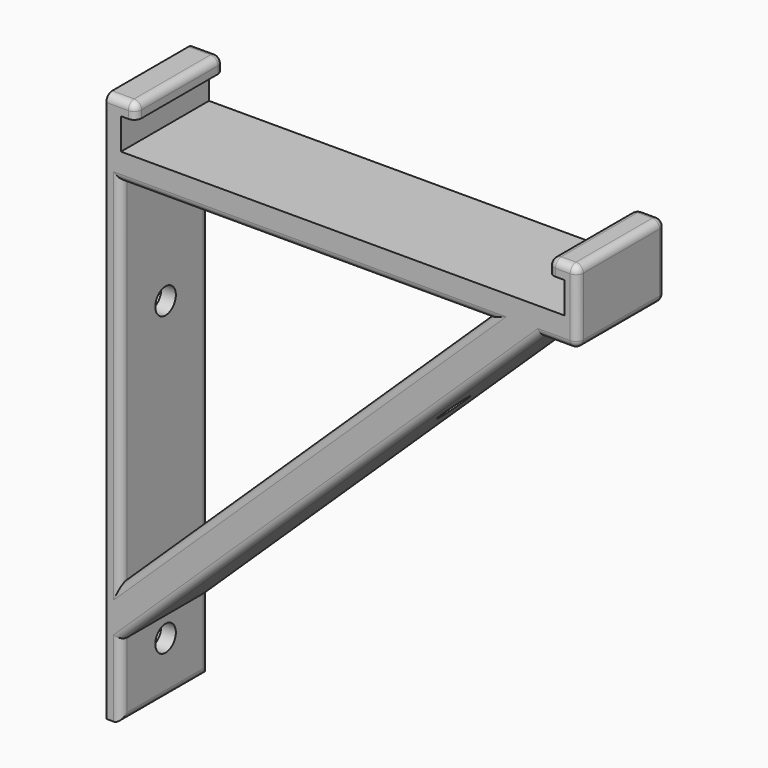
from build123d import *

# Parameters (mm, degrees)
F1_DEPTH      = 30
F2_R          = 3.5
F3_DEPTH      = 73.1
F4_DEPTH      = 25
F4_DEPTH_BACK = 25
F5_R          = 2


with BuildPart() as f1:
    # F0 (on Front) → F1 (new body)
    with BuildSketch(Plane.XZ):
        Polygon((-57.971305, 24.073915), (-57.971305, 32.573915), (-53.971305, 32.573915), (-53.971305, 36.573915), (-61.971305, 36.573915), (-61.971305, -113.426085), (-57.971305, -113.426085), (-57.971305, -93.426085), (56.528695, 16.573915), (66.528695, 16.573915), (66.528695, 36.573915), (58.528695, 36.573915), (58.528695, 32.573915), (63.028695, 32.573915), (63.028695, 24.073915), align=None)
        Polygon((-57.971305, -79.559067), (-57.971305, 16.573915), (42.094389, 16.573915), align=None, mode=Mode.SUBTRACT)
    extrude(amount=F1_DEPTH)

    # F2 (on Right) → F3 (cut)
    with BuildSketch(Plane.YZ):
        with Locations((-14.8, -98.926085)):
            Circle(F2_R)
        with Locations((-14.8, -17.926085)):
            Circle(F2_R)
    extrude(amount=-F3_DEPTH, mode=Mode.SUBTRACT)

    # F2 (on Right) → F4 (cut, two sides)
    with BuildSketch(Plane.YZ) as f4_sk:
        with Locations((-14.8, -98.926085)):
            Circle(F2_R)
        with Locations((-14.8, -17.926085)):
            Circle(F2_R)
    extrude(amount=F4_DEPTH, mode=Mode.SUBTRACT)
    extrude(f4_sk.sketch, amount=-F4_DEPTH_BACK, mode=Mode.SUBTRACT)

    # F5
    f5_edges = [f1.edges().sort_by_distance(p)[0] for p in [
        (66.528695, -15, 36.573915),
        (58.528695, -15, 36.573915),
        (66.528695, -30, 26.573915),
        (62.528695, -30, 36.573915),
        (62.528695, 0, 36.573915),
        (66.528695, 0, 26.573915),
        (58.528695, 0, 34.573915),
        (58.528695, -30, 34.573915),
        (66.528695, -15, 16.573915),
        (61.528695, -30, 16.573915),
        (61.528695, 0, 16.573915),
        (-7.938458, -30, 16.573915),
        (-7.938458, 0, 16.573915),
        (-0.721305, -30, -38.426085),
        (-7.938458, -30, -31.492576),
        (-57.971305, -30, -31.492576),
        (-57.971305, 0, -31.492576),
        (-0.721305, 0, -38.426085),
        (-7.938458, 0, -31.492576),
        (-57.971305, -15, -113.426085),
        (-57.971305, 0, -103.426085),
        (-57.971305, -30, -103.426085),
        (-57.971305, 0, 36.573915),
        (-53.971305, 0, 34.573915),
        (-53.971305, -15, 36.573915),
        (-57.971305, -30, 36.573915),
        (-53.971305, -30, 34.573915),
    ]]
    fillet(f5_edges, radius=F5_R)


solid = f1.part
